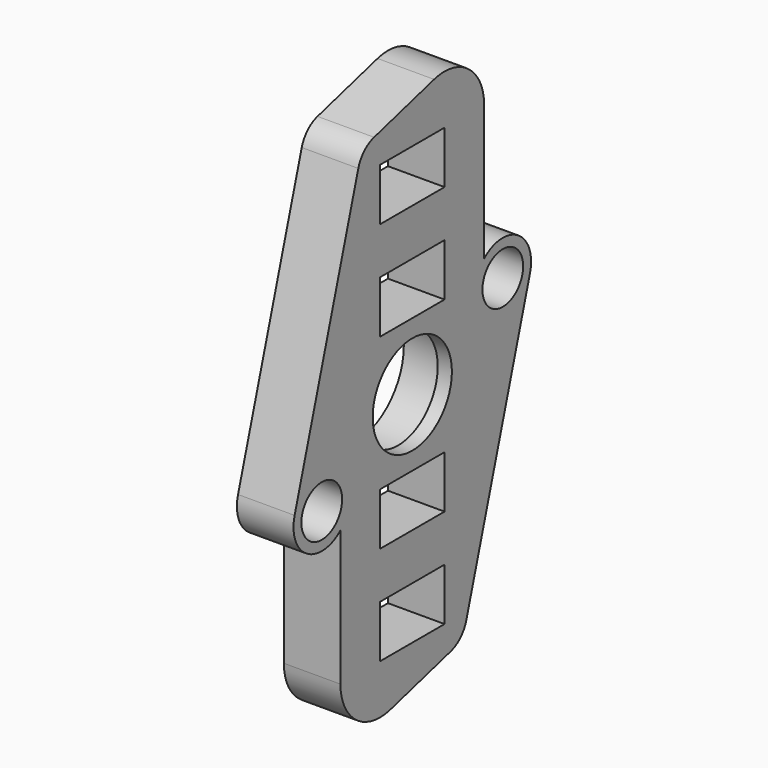
from build123d import *

# Parameters (mm, degrees)
SKETCH171_R     = 4.25
PAD127009_DEPTH = 3
SKETCH147_R     = 3.5
SKETCH147_R_2   = 1.8
SKETCH147_W     = 5.7
SKETCH147_H     = 3.7
PAD115_DEPTH    = 4


with BuildPart() as bearingcutout:
    # Sketch171 → Pad127009 (new body)
    with BuildSketch(Plane(origin=(59, 160, 0), x_dir=(0, 1, 0), z_dir=(1, 0, 0))):
        Circle(SKETCH171_R)
    extrude(amount=PAD127009_DEPTH)


with BuildPart() as wheelbearingbase:
    # Sketch147 → Pad115 (new body)
    with BuildSketch(Plane(origin=(59, 160, 0), x_dir=(0, 1, 0), z_dir=(1, 0, 0))):
        with BuildLine():
            ThreePointArc((10.40007, 3.300239), (9.342414, 6.10901), (6.35, 5.878164))
            Line((6.35, 5.878164), (6.35, 15.45))
            ThreePointArc((6.35, 15.45), (4.974419, 18.231518), (1.928947, 18.826635))
            Line((-3.376316, 17.379506), (1.928947, 18.826635))
            ThreePointArc((-3.376316, 17.379506), (-4.251863, 16.876457), (-4.770061, 16.00979))
            Line((-10.40007, -3.300239), (-4.770061, 16.00979))
            ThreePointArc((-10.40007, -3.300239), (-9.342414, -6.10901), (-6.35, -5.878164))
            Line((-6.35, -5.878164), (-6.35, -15.45))
            ThreePointArc((-6.35, -15.45), (-4.974419, -18.231518), (-1.928947, -18.826635))
            Line((-1.928947, -18.826635), (3.376315, -17.379506))
            ThreePointArc((3.376315, -17.379506), (4.251856, -16.876464), (4.770056, -16.009808))
            Line((10.40007, 3.300239), (4.770056, -16.009808))
        make_face()
        Circle(SKETCH147_R, mode=Mode.SUBTRACT)
        with Locations((-8, -4)):
            Circle(SKETCH147_R_2, mode=Mode.SUBTRACT)
        with Locations((8, 4)):
            Circle(SKETCH147_R_2, mode=Mode.SUBTRACT)
        with Locations((0, 6.6)):
            Rectangle(SKETCH147_W, SKETCH147_H, mode=Mode.SUBTRACT)
        with Locations((0, -13.6)):
            Rectangle(SKETCH147_W, SKETCH147_H, mode=Mode.SUBTRACT)
        with Locations((0, 13.6)):
            Rectangle(SKETCH147_W, SKETCH147_H, mode=Mode.SUBTRACT)
        with Locations((0, -6.6)):
            Rectangle(SKETCH147_W, SKETCH147_H, mode=Mode.SUBTRACT)
    extrude(amount=PAD115_DEPTH)

    # Cut007019018: cut BearingCutout
    add(bearingcutout.part, mode=Mode.SUBTRACT)


solid = wheelbearingbase.part
